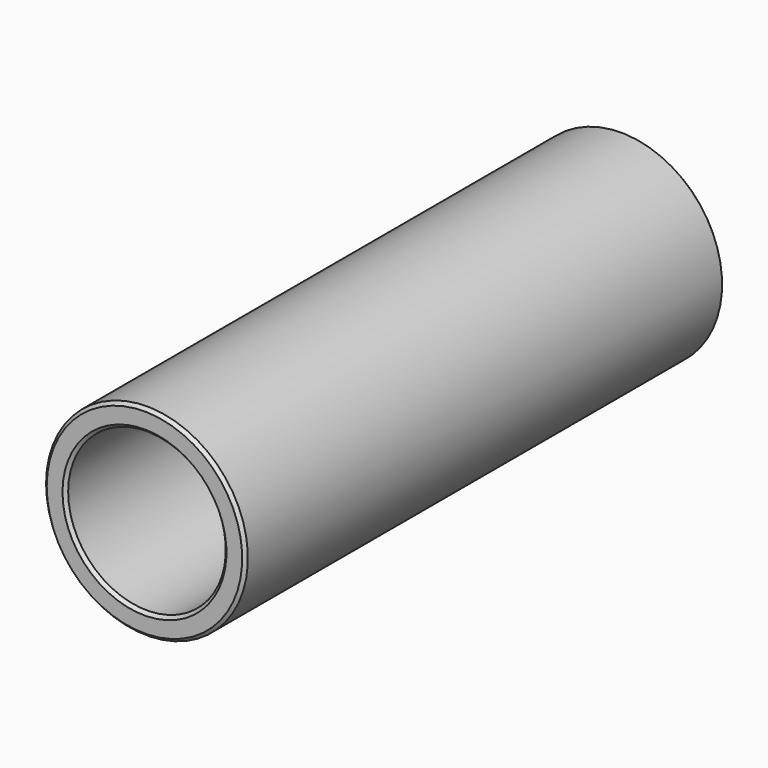
from build123d import *

# Parameters (mm, degrees)
F0_W    = 7
F0_H    = 95
F2_SIZE = 1
F3_SIZE = 1
F4_SIZE = 1


with BuildPart() as f1:
    # F0 (on Top) → F1 (revolve)
    with BuildSketch(Plane.XY):
        with Locations((-28.5, -47.5)):
            Rectangle(F0_W, F0_H)
        with Locations((-28.5, 47.5)):
            Rectangle(F0_W, F0_H)
    revolve(axis=Axis((0, 0, 0), (0, 1, 0)))

    # F2
    f2_edges = [f1.edges().sort_by_distance(p)[0] for p in [
        (25, -95, 0),
        (-25, 0, 0),
        (25, 95, 0),
    ]]
    chamfer(f2_edges, length=F2_SIZE)

    # F3
    f3_edges = [f1.edges().sort_by_distance(p)[0] for p in [
        (32, -95, 0),
    ]]
    chamfer(f3_edges, length=F3_SIZE)

    # F4
    f4_edges = [f1.edges().sort_by_distance(p)[0] for p in [
        (32, 95, 0),
    ]]
    chamfer(f4_edges, length=F4_SIZE)


solid = f1.part
